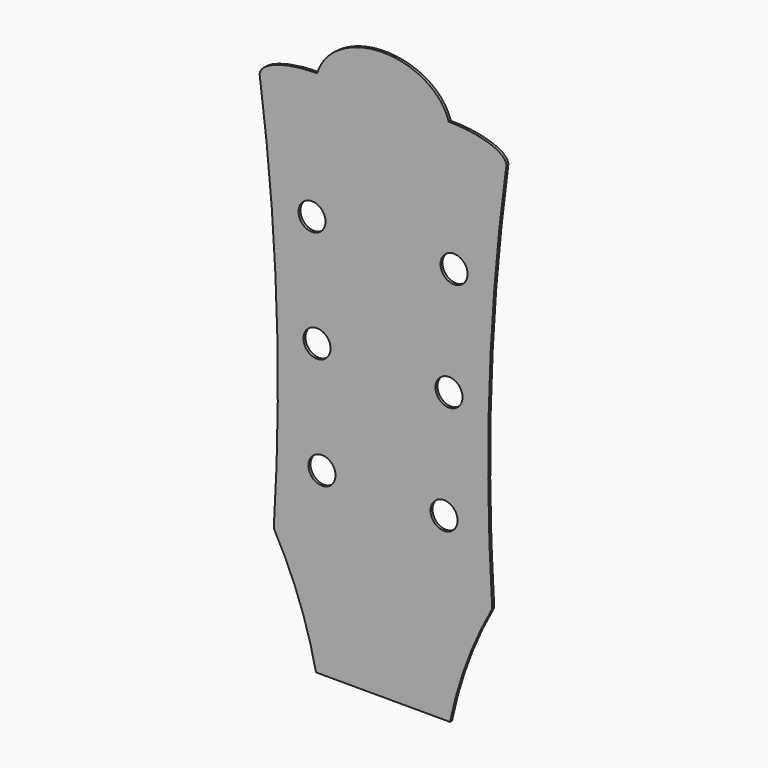
from build123d import *

# Parameters (mm, degrees)
F1_DEPTH = 0.79375
F3_D     = 8.64
F3_DEPTH = 19.05
F3_TIP   = 2.5957178742


with BuildPart() as f1:
    # F0 (on Front) → F1 (new body)
    with BuildSketch(Plane.XZ):
        with BuildLine():
            ThreePointArc((-34.925, 36.195), (-26.7939350854, 18.6135357138), (-21.43125, 0))
            Line((-21.43125, 0), (21.43125, 0))
            ThreePointArc((21.43125, 0), (26.7939350854, 18.6135357138), (34.925, 36.195))
            ThreePointArc((34.925, 36.195), (34.0281457568, 99.1280352492), (39.3657787077, 161.840720949))
            add(Edge.make_bspline(
                [(17.2758395415, 156.2136128394), (37.4450433399, 154.7833469527), (39.3657787077, 161.840720949)],
                knots=[4.5092148971, 4.5092148971, 4.5092148971, 6.189777243, 6.189777243, 6.189777243], degree=2, weights=[1, 0.667253426, 1]))
            add(Edge.make_bspline(
                [(-17.2758395415, 156.2136128394), (0, 138.7818089253), (17.2758395415, 156.2136128394)],
                knots=[3.7748484695, 3.7748484695, 3.7748484695, 5.6499294912, 5.6499294912, 5.6499294912], degree=2, weights=[1, 0.5917724196, 1]))
            add(Edge.make_bspline(
                [(-39.3657787077, 161.840720949), (-37.4450433399, 154.7833469527), (-17.2758395415, 156.2136128394)],
                knots=[0.0934080642, 0.0934080642, 0.0934080642, 1.7739704101, 1.7739704101, 1.7739704101], degree=2, weights=[1, 0.667253426, 1]))
            ThreePointArc((-39.3657787077, 161.840720949), (-34.0281457568, 99.1280352492), (-34.925, 36.195))
        make_face()
        with BuildLine():
            ThreePointArc((-39.4462, 162.433), (-39.4059196661, 162.1368699369), (-39.3657787077, 161.840720949))
            add(Edge.make_bspline(
                [(-39.3657787077, 161.840720949), (-37.4450433399, 154.7833469527), (-17.2758395415, 156.2136128394)],
                knots=[0.0934080642, 0.0934080642, 0.0934080642, 1.7739704101, 1.7739704101, 1.7739704101], degree=2, weights=[1, 0.667253426, 1]))
            add(Edge.make_bspline(
                [(-20.99825082, 168.783), (-22.8985434862, 161.8870779347), (-17.2758395415, 156.2136128394)],
                knots=[2.9402347328, 2.9402347328, 2.9402347328, 3.7748484695, 3.7748484695, 3.7748484695], degree=2, weights=[1, 0.9141837803, 1]))
            add(Edge.make_bspline(
                [(-20.99825082, 168.783), (-39.4462, 168.783), (-39.4462, 162.433)],
                knots=[4.7123889804, 4.7123889804, 4.7123889804, 6.2831853072, 6.2831853072, 6.2831853072], degree=2, weights=[1, 0.7071067812, 1]))
        make_face()
        with BuildLine():
            add(Edge.make_bspline(
                [(-20.99825082, 168.783), (-22.8985434862, 161.8870779347), (-17.2758395415, 156.2136128394)],
                knots=[2.9402347328, 2.9402347328, 2.9402347328, 3.7748484695, 3.7748484695, 3.7748484695], degree=2, weights=[1, 0.9141837803, 1]))
            add(Edge.make_bspline(
                [(-17.2758395415, 156.2136128394), (-0.9555751765, 157.3709375219), (-2.6454105494, 163.076968761), (-4.3352459223, 168.783), (-20.99825082, 168.783)],
                knots=[1.7739704101, 1.7739704101, 1.7739704101, 3.2431796952, 3.2431796952, 4.7123889804, 4.7123889804, 4.7123889804], degree=2, weights=[1, 0.742095817, 1, 0.742095817, 1]))
        make_face()
        with BuildLine():
            add(Edge.make_bspline(
                [(-17.2758395415, 156.2136128394), (-0.9555751765, 157.3709375219), (-2.6454105494, 163.076968761), (-4.3352459223, 168.783), (-20.99825082, 168.783)],
                knots=[1.7739704101, 1.7739704101, 1.7739704101, 3.2431796952, 3.2431796952, 4.7123889804, 4.7123889804, 4.7123889804], degree=2, weights=[1, 0.742095817, 1, 0.742095817, 1]))
            add(Edge.make_bspline(
                [(-17.2758395415, 156.2136128394), (0, 138.7818089253), (17.2758395415, 156.2136128394)],
                knots=[3.7748484695, 3.7748484695, 3.7748484695, 5.6499294912, 5.6499294912, 5.6499294912], degree=2, weights=[1, 0.5917724196, 1]))
            add(Edge.make_bspline(
                [(20.99825082, 168.783), (4.3352459223, 168.783), (2.6454105494, 163.076968761), (0.9555751765, 157.3709375219), (17.2758395415, 156.2136128394)],
                knots=[1.5707963268, 1.5707963268, 1.5707963268, 3.0400056119, 3.0400056119, 4.5092148971, 4.5092148971, 4.5092148971], degree=2, weights=[1, 0.742095817, 1, 0.742095817, 1]))
            add(Edge.make_bspline(
                [(20.99825082, 168.783), (17.49854235, 181.483), (0, 181.483), (-17.49854235, 181.483), (-20.99825082, 168.783)],
                knots=[0.2013579208, 0.2013579208, 0.2013579208, 1.5707963268, 1.5707963268, 2.9402347328, 2.9402347328, 2.9402347328], degree=2, weights=[1, 0.7745966692, 1, 0.7745966692, 1]))
        make_face()
        with BuildLine():
            add(Edge.make_bspline(
                [(20.99825082, 168.783), (4.3352459223, 168.783), (2.6454105494, 163.076968761), (0.9555751765, 157.3709375219), (17.2758395415, 156.2136128394)],
                knots=[1.5707963268, 1.5707963268, 1.5707963268, 3.0400056119, 3.0400056119, 4.5092148971, 4.5092148971, 4.5092148971], degree=2, weights=[1, 0.742095817, 1, 0.742095817, 1]))
            add(Edge.make_bspline(
                [(17.2758395415, 156.2136128394), (21.43125, 160.4065378849), (21.43125, 165.608)],
                knots=[5.6499294912, 5.6499294912, 5.6499294912, 6.2831853072, 6.2831853072, 6.2831853072], degree=2, weights=[1, 0.9502907666, 1]))
            add(Edge.make_bspline(
                [(21.43125, 165.608), (21.43125, 167.2117006666), (20.99825082, 168.783)],
                knots=[0, 0, 0, 0.2013579208, 0.2013579208, 0.2013579208], degree=2, weights=[1, 0.994936153, 1]))
        make_face()
        with BuildLine():
            add(Edge.make_bspline(
                [(17.2758395415, 156.2136128394), (37.4450433399, 154.7833469527), (39.3657787077, 161.840720949)],
                knots=[4.5092148971, 4.5092148971, 4.5092148971, 6.189777243, 6.189777243, 6.189777243], degree=2, weights=[1, 0.667253426, 1]))
            ThreePointArc((39.3657787077, 161.840720949), (39.4059196661, 162.1368699369), (39.4462, 162.433))
            add(Edge.make_bspline(
                [(39.4462, 162.433), (39.4462, 168.783), (20.99825082, 168.783)],
                knots=[0, 0, 0, 1.5707963268, 1.5707963268, 1.5707963268], degree=2, weights=[1, 0.7071067812, 1]))
            add(Edge.make_bspline(
                [(21.43125, 165.608), (21.43125, 167.2117006666), (20.99825082, 168.783)],
                knots=[0, 0, 0, 0.2013579208, 0.2013579208, 0.2013579208], degree=2, weights=[1, 0.994936153, 1]))
            add(Edge.make_bspline(
                [(17.2758395415, 156.2136128394), (21.43125, 160.4065378849), (21.43125, 165.608)],
                knots=[5.6499294912, 5.6499294912, 5.6499294912, 6.2831853072, 6.2831853072, 6.2831853072], degree=2, weights=[1, 0.9502907666, 1]))
        make_face()
    extrude(amount=F1_DEPTH)

    # F3
    with Locations(Plane.XZ.offset(0.79375)):
        with Locations((-19.51, 57.48), (19.51, 57.48), (21.1084226467, 92.68), (-21.1084226467, 92.68), (-22.7068452934, 127.88), (22.7068452934, 127.88)):
            Hole(F3_D / 2, depth=F3_DEPTH)
            with Locations((0, 0, -(F3_DEPTH + F3_TIP / 2))):  # 118° drill point
                Cone(0, F3_D / 2, F3_TIP, mode=Mode.SUBTRACT)


solid = f1.part
